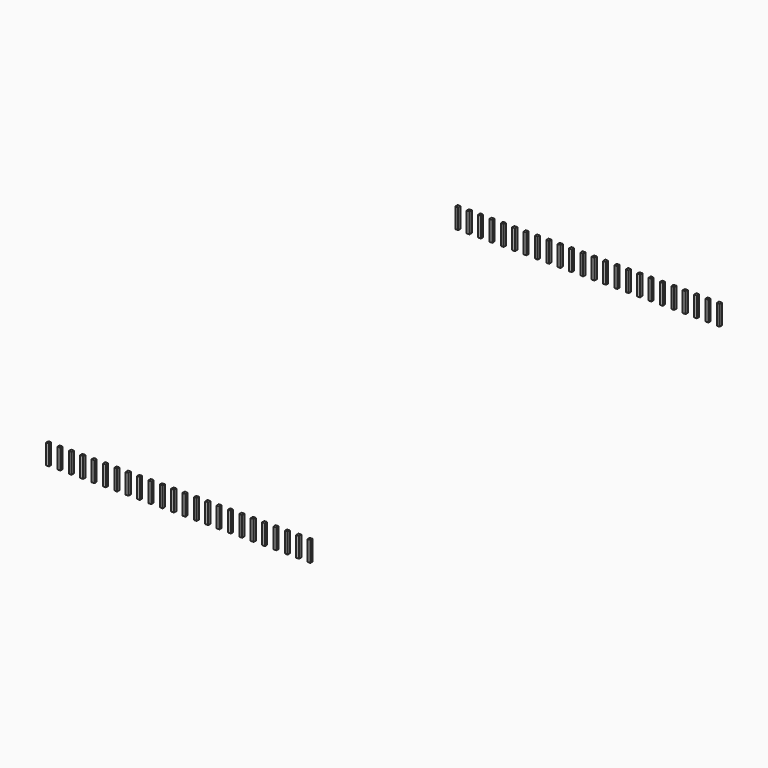
from build123d import *

# Parameters (mm, degrees)
BOX002_W      = 0.64
BOX002_H      = 0.64
BOX002_DEPTH  = 4.5
ARRAY_X_COUNT = 24
ARRAY_X_PITCH = 2.54
ARRAY_Y_COUNT = 2
ARRAY_Y_PITCH = 114.3


with BuildPart() as part:
    # Box002 → Box002 (new body)
    with BuildSketch(Plane(origin=(-0.32, -0.32, -4), x_dir=(1, 0, 0), z_dir=(0, 0, 1))):
        with Locations((0.32, 0.32)):
            Rectangle(BOX002_W, BOX002_H)
    extrude(amount=BOX002_DEPTH)

    # Array X: part ×24


with BuildPart() as part_1:
    add(part.part)
    with Locations(*[(i * ARRAY_X_PITCH, 0, 0) for i in range(1, ARRAY_X_COUNT)]):
        add(part.part)

    # Array Y: part ×2


with BuildPart() as part_2:
    add(part_1.part)
    with Locations(*[(0, -i * ARRAY_Y_PITCH, 0) for i in range(1, ARRAY_Y_COUNT)]):
        add(part_1.part)


solid = part_2.part
